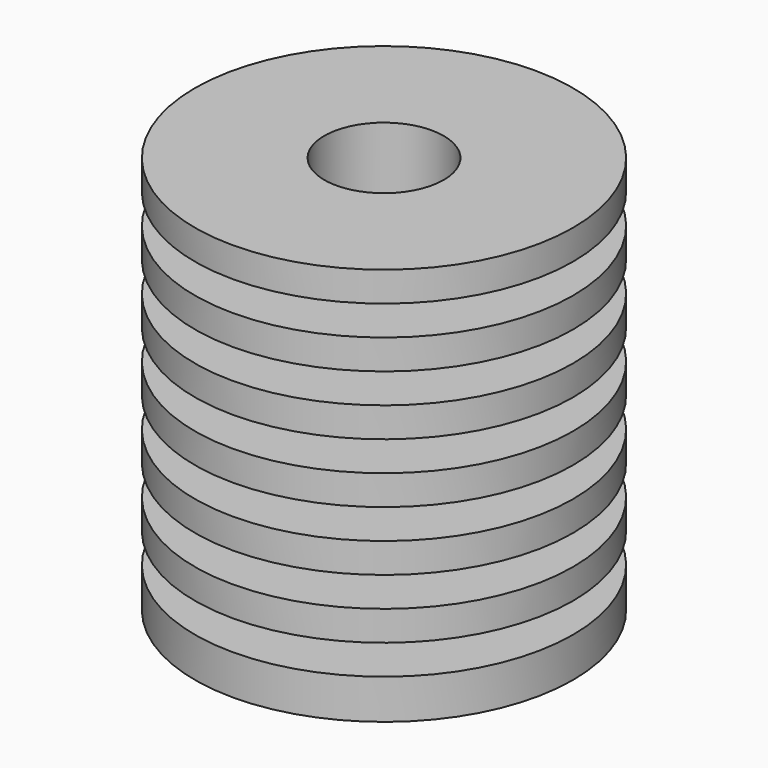
from build123d import *

# Parameters (mm, degrees)
F0_R     = 9.5
F0_R_2   = 3
F1_DEPTH = 20
F2_W     = 5
F2_H     = 1.5


with BuildPart() as f1:
    # F0 (on Top) → F1 (new body)
    with BuildSketch(Plane.XY):
        Circle(F0_R)
        Circle(F0_R_2, mode=Mode.SUBTRACT)
    extrude(amount=F1_DEPTH)

    # F2 (on Front) → F3 (revolve, cut)
    with BuildSketch(Plane.XZ):
        with Locations((-7.5, 17.75)):
            Rectangle(F2_W, F2_H)
        with Locations((-7.5, 14.75)):
            Rectangle(F2_W, F2_H)
        with Locations((-7.5, 11.75)):
            Rectangle(F2_W, F2_H)
        with Locations((-7.5, 8.75)):
            Rectangle(F2_W, F2_H)
        with Locations((-7.5, 5.75)):
            Rectangle(F2_W, F2_H)
        with Locations((-7.5, 2.75)):
            Rectangle(F2_W, F2_H)
    revolve(axis=Axis((0, 0, 20), (0, 0, 1)), mode=Mode.SUBTRACT)


solid = f1.part
